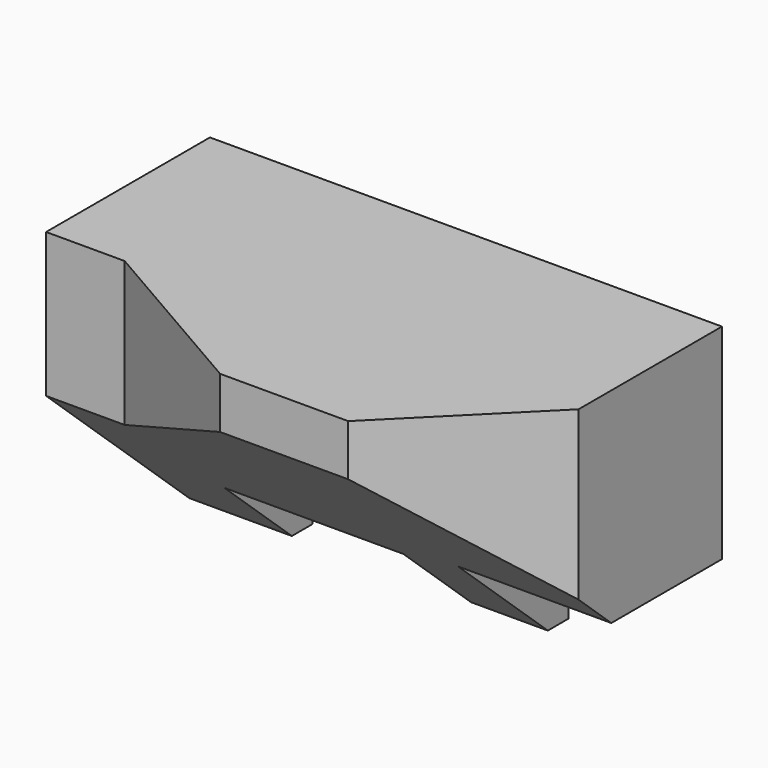
from build123d import *

# Parameters (mm, degrees)
F1_DEPTH = 60
F3_DEPTH = 100.001
F5_DEPTH = 40.001


with BuildPart() as f1:
    # F0 (on Front) → F1 (new body)
    with BuildSketch(Plane.XZ):
        Polygon((45, 60), (-55, 60), (-55, 0), (-35, 0), (-35, 15), (0, 15), (0, 0), (15, 0), (15, 20), (45, 20), align=None)
    extrude(amount=-F1_DEPTH)

    # F2 (on face) → F3 (cut, through all)
    with BuildSketch(Plane(origin=(-55, 0, 0), x_dir=(0, -1, 0), z_dir=(-1, 0, 0))):
        Polygon((0, 0), (0, 50), (-55, 0), align=None)
    extrude(amount=-F3_DEPTH, mode=Mode.SUBTRACT)

    # F4 (on face) → F5 (cut, through all)
    with BuildSketch(Plane(origin=(0, 0, 20), x_dir=(1, 0, 0), z_dir=(0, 0, -1))):
        Polygon((-55, 0), (-55, -20), (-39.641016, -20), (-5, 0), align=None)
        Polygon((45, 0), (20, 0), (45, -25), align=None)
    extrude(amount=-F5_DEPTH, mode=Mode.SUBTRACT)


solid = f1.part
